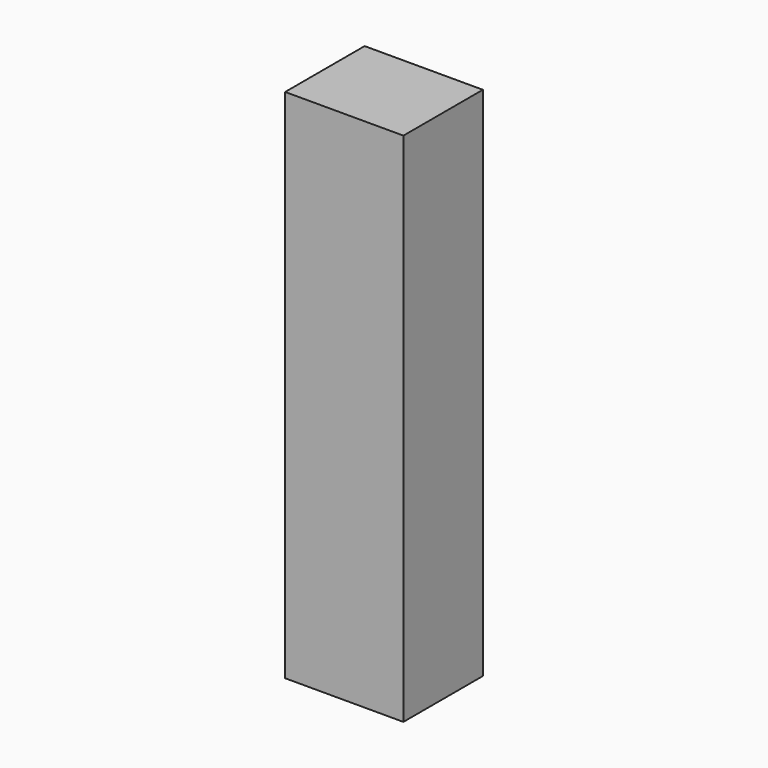
from build123d import *

# Parameters (mm, degrees)
F0_W      = 58.184892
F0_H      = 48.881609
F1_DEPTH  = 254
F1_FACE_W = 58.184892
F1_FACE_H = 48.881608
F2_DEPTH  = 127


with BuildPart() as f1:
    # F0 (on Top) → F1 (new body)
    with BuildSketch(Plane.XY):
        with Locations((29.092446, 24.440804)):
            Rectangle(F0_W, F0_H)
        with Locations((29.092446, 24.440804)):
            Rectangle(F0_W, F0_H)
    extrude(amount=F1_DEPTH)

    # F1_face (on face) → F2 (join)
    with BuildSketch(Plane(origin=(29.092446, 24.440804, 254), x_dir=(1, 0, 0), z_dir=(0, 0, 1))):
        Rectangle(F1_FACE_W, F1_FACE_H)
    extrude(amount=-F2_DEPTH)


solid = f1.part
